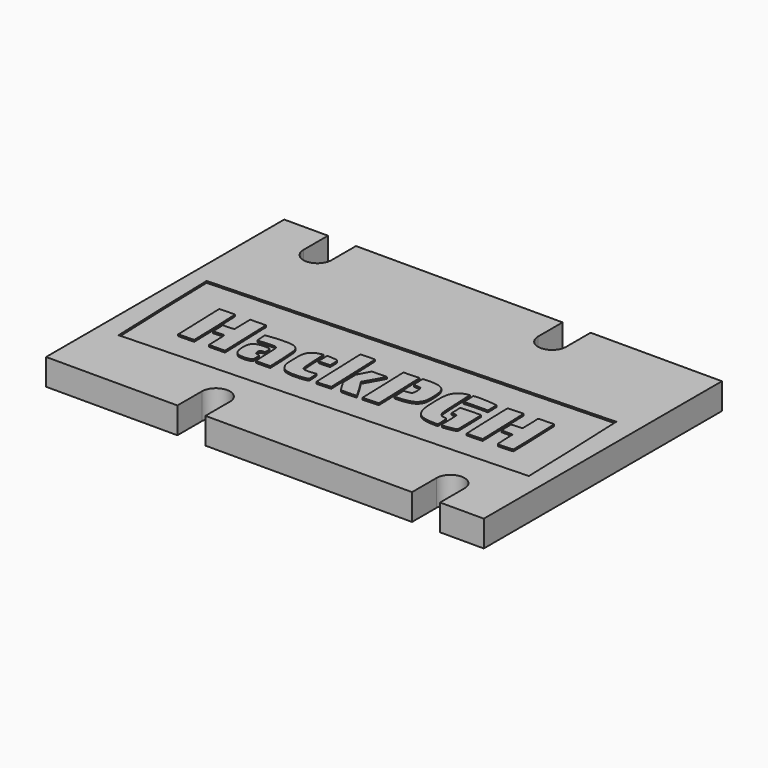
from build123d import *

# Parameters (mm, degrees)
PAD001_DEPTH = 3
POCKET_DEPTH = 0.2
PAD002_DEPTH = 0.2


with BuildPart() as part:
    # Sketch001 (on DatumPlane) → Pad001 (new body)
    with BuildSketch(Plane(origin=(0, 0, 1.7), x_dir=(1, 0, 0), z_dir=(0, 0, -1))):
        with BuildLine():
            Line((-25, 20), (-10, 20))
            Line((-10, 20), (-10, 16.5))
            ThreePointArc((-10, 16.5), (-8.4, 14.9), (-6.8, 16.5))
            Line((-6.8, 16.5), (-6.8, 20))
            Line((-6.8, 20), (16.8, 20))
            Line((16.8, 20), (16.8, 16.5))
            ThreePointArc((16.8, 16.5), (18.4, 14.9), (20, 16.5))
            Line((20, 16.5), (20, 20))
            Line((20, 20), (25, 20))
            Line((25, 20), (25, -14))
            Line((25, -14), (10, -14))
            Line((10, -14), (10, -10.5))
            ThreePointArc((10, -10.5), (8.4, -8.9), (6.8, -10.5))
            Line((6.8, -10.5), (6.8, -14))
            Line((6.8, -14), (-16.8, -14))
            Line((-16.8, -14), (-16.8, -10.5))
            ThreePointArc((-16.8, -10.5), (-18.4, -8.9), (-20, -10.5))
            Line((-20, -10.5), (-20, -14))
            Line((-20, -14), (-25, -14))
            Line((-25, -14), (-25, 20))
        make_face()
    extrude(amount=-PAD001_DEPTH)

    # Sketch002 (on Face22 of Pad001) → Pocket (cut)
    with BuildSketch(Plane(origin=(-23, 2, 4.7), x_dir=(1, 0, 0), z_dir=(0, 0, 1))):
        with BuildLine():
            add(Edge.make_bspline(
                [(0.405326, -14.19312), (0.332748, -13.233638), (-0.037555, -1.629354), (0.003109, -1.588691)],
                knots=[0, 0, 0, 0, 1, 1, 1, 1], degree=3))
            add(Edge.make_bspline(
                [(0.003109, -1.588691), (0.058539, -1.53326), (45.480512, 0.050456), (45.532207, -0.001238)],
                knots=[0, 0, 0, 0, 1, 1, 1, 1], degree=3))
            add(Edge.make_bspline(
                [(45.532207, -0.001238), (45.578189, -0.04722), (46.040074, -13.017304), (45.997193, -13.058394)],
                knots=[0, 0, 0, 0, 1, 1, 1, 1], degree=3))
            add(Edge.make_bspline(
                [(45.997193, -13.058394), (45.982006, -13.072946), (36.098618, -13.427956), (24.034131, -13.847281)],
                knots=[0, 0, 0, 0, 1, 1, 1, 1], degree=3))
            add(Edge.make_bspline(
                [(24.034131, -13.847281), (11.969647, -14.266609), (1.726147, -14.627704), (1.270796, -14.64972)],
                knots=[0, 0, 0, 0, 1, 1, 1, 1], degree=3))
            add(Edge.make_bspline(
                [(1.270796, -14.64972), (0.442891, -14.689746)],
                knots=[0, 0, 3.132745, 3.132745], degree=1))
            add(Edge.make_bspline(
                [(0.442891, -14.689746), (0.405326, -14.19312)],
                knots=[0, 0, 1.882372, 1.882372], degree=1))
        make_face()
    extrude(amount=-POCKET_DEPTH, mode=Mode.SUBTRACT)

    # Sketch003 (on Face30 of Pocket) → Pad002 (join)
    with BuildSketch(Plane(origin=(-23, 2, 4.5), x_dir=(1, 0, 0), z_dir=(0, 0, 1))):
        with BuildLine():
            add(Edge.make_bspline(
                [(6.248932, -11.159427), (6.286886, -11.097591), (6.079426, -5.110141), (6.038257, -5.07913)],
                knots=[0, 0, 0, 0, 1, 1, 1, 1], degree=3))
            add(Edge.make_bspline(
                [(6.038257, -5.07913), (6.020927, -5.066086), (5.616723, -5.066535), (5.140039, -5.080188)],
                knots=[0, 0, 0, 0, 1, 1, 1, 1], degree=3))
            add(Edge.make_bspline(
                [(5.140039, -5.080188), (4.273336, -5.104926)],
                knots=[0, 0, 3.277064, 3.277064], degree=1))
            add(Edge.make_bspline(
                [(4.273336, -5.104926), (4.274923, -5.366631)],
                knots=[0, 0, 0.989138, 0.989138], degree=1))
            add(Edge.make_bspline(
                [(4.274923, -5.366631), (4.275717, -5.51057), (4.317632, -6.720382), (4.367834, -8.055102)],
                knots=[0, 0, 0, 0, 1, 1, 1, 1], degree=3))
            add(Edge.make_bspline(
                [(4.367834, -8.055102), (4.418036, -9.389822), (4.459846, -10.644963), (4.460748, -10.844305)],
                knots=[0, 0, 0, 0, 1, 1, 1, 1], degree=3))
            add(Edge.make_bspline(
                [(4.460748, -10.844305), (4.462335, -11.206742)],
                knots=[0, 0, 1.369853, 1.369853], degree=1))
            add(Edge.make_bspline(
                [(4.462335, -11.206742), (5.341075, -11.206742)],
                knots=[0, 0, 3.32122, 3.32122], degree=1))
            add(Edge.make_bspline(
                [(5.341075, -11.206742), (5.824381, -11.206742), (6.232872, -11.185469), (6.248831, -11.159469)],
                knots=[0, 0, 0, 0, 1, 1, 1, 1], degree=3))
            add(Edge.make_bspline(
                [(6.248831, -11.159469), (6.248932, -11.159427)],
                knots=[0, 0, 0.000412, 0.000412], degree=1))
        make_face()
        with BuildLine():
            add(Edge.make_bspline(
                [(9.692532, -10.872454), (9.691738, -10.761612), (9.64973, -9.593059), (9.599403, -8.275672)],
                knots=[0, 0, 0, 0, 1, 1, 1, 1], degree=3))
            add(Edge.make_bspline(
                [(9.599403, -8.275672), (9.54908, -6.958288), (9.507265, -5.674), (9.506484, -5.421707)],
                knots=[0, 0, 0, 0, 1, 1, 1, 1], degree=3))
            add(Edge.make_bspline(
                [(9.506484, -5.421707), (9.505162, -4.962988)],
                knots=[0, 0, 1.733747, 1.733747], degree=1))
            add(Edge.make_bspline(
                [(9.505162, -4.962988), (8.606943, -4.980477)],
                knots=[0, 0, 3.395483, 3.395483], degree=1))
            add(Edge.make_bspline(
                [(8.606943, -4.980477), (7.708725, -4.997966)],
                knots=[0, 0, 3.395483, 3.395483], degree=1))
            add(Edge.make_bspline(
                [(7.708725, -4.997966), (7.732723, -6.13881)],
                knots=[0, 0, 4.312804, 4.312804], degree=1))
            add(Edge.make_bspline(
                [(7.732723, -6.13881), (7.756721, -7.279656)],
                knots=[0, 0, 4.312814, 4.312814], degree=1))
            add(Edge.make_bspline(
                [(7.756721, -7.279656), (7.606665, -7.319817)],
                knots=[0, 0, 0.587101, 0.587101], degree=1))
            add(Edge.make_bspline(
                [(7.606665, -7.319817), (7.524136, -7.34191), (7.232621, -7.360362), (6.958857, -7.360835)],
                knots=[0, 0, 0, 0, 1, 1, 1, 1], degree=3))
            add(Edge.make_bspline(
                [(6.958857, -7.360835), (6.461104, -7.361629)],
                knots=[0, 0, 1.881272, 1.881272], degree=1))
            add(Edge.make_bspline(
                [(6.461104, -7.361629), (6.501868, -7.843885)],
                knots=[0, 0, 1.8292, 1.8292], degree=1))
            add(Edge.make_bspline(
                [(6.501868, -7.843885), (6.524278, -8.109122), (6.542635, -8.43911), (6.542635, -8.577186)],
                knots=[0, 0, 0, 0, 1, 1, 1, 1], degree=3))
            add(Edge.make_bspline(
                [(6.542635, -8.577186), (6.542635, -8.828236)],
                knots=[0, 0, 0.94885, 0.94885], degree=1))
            add(Edge.make_bspline(
                [(6.542635, -8.828236), (7.164559, -8.798287)],
                knots=[0, 0, 2.353304, 2.353304], degree=1))
            add(Edge.make_bspline(
                [(7.164559, -8.798287), (7.786484, -8.768339)],
                knots=[0, 0, 2.353304, 2.353304], degree=1))
            add(Edge.make_bspline(
                [(7.786484, -8.768339), (7.826404, -9.240599)],
                knots=[0, 0, 1.791286, 1.791286], degree=1))
            add(Edge.make_bspline(
                [(7.826404, -9.240599), (7.848365, -9.500343), (7.866324, -10.015866), (7.866324, -10.386206)],
                knots=[0, 0, 0, 0, 1, 1, 1, 1], degree=3))
            add(Edge.make_bspline(
                [(7.866324, -10.386206), (7.866324, -10.756545), (7.878045, -11.071371), (7.892386, -11.085814)],
                knots=[0, 0, 0, 0, 1, 1, 1, 1], degree=3))
            add(Edge.make_bspline(
                [(7.892386, -11.085814), (7.906726, -11.10026), (8.318008, -11.103488), (8.806363, -11.093011)],
                knots=[0, 0, 0, 0, 1, 1, 1, 1], degree=3))
            add(Edge.make_bspline(
                [(8.806363, -11.093011), (9.694278, -11.073934)],
                knots=[0, 0, 3.356674, 3.356674], degree=1))
            add(Edge.make_bspline(
                [(9.694278, -11.073934), (9.692532, -10.872454)],
                knots=[0, 0, 0.761529, 0.761529], degree=1))
        make_face()
        with BuildLine():
            add(Edge.make_bspline(
                [(12.546396, -10.865178), (12.73229, -10.742695), (12.751377, -10.635708), (12.680109, -10.115738)],
                knots=[0, 0, 0, 0, 1, 1, 1, 1], degree=3))
            add(Edge.make_bspline(
                [(12.680109, -10.115738), (12.641974, -9.837526), (12.631865, -9.825895), (12.412218, -9.807535)],
                knots=[0, 0, 0, 0, 1, 1, 1, 1], degree=3))
            add(Edge.make_bspline(
                [(12.412218, -9.807535), (12.205356, -9.790232), (12.178371, -9.765834), (12.124362, -9.547148)],
                knots=[0, 0, 0, 0, 1, 1, 1, 1], degree=3))
            add(Edge.make_bspline(
                [(12.124362, -9.547148), (12.046471, -9.231773), (12.130474, -9.10073), (12.426715, -9.075531)],
                knots=[0, 0, 0, 0, 1, 1, 1, 1], degree=3))
            add(Edge.make_bspline(
                [(12.426715, -9.075531), (12.656704, -9.055978)],
                knots=[0, 0, 0.872386, 0.872386], degree=1))
            add(Edge.make_bspline(
                [(12.656704, -9.055978), (12.656704, -8.749773)],
                knots=[0, 0, 1.15731, 1.15731], degree=1))
            add(Edge.make_bspline(
                [(12.656704, -8.749773), (12.656704, -8.253071), (12.646649, -8.244163), (12.085767, -8.244163)],
                knots=[0, 0, 0, 0, 1, 1, 1, 1], degree=3))
            add(Edge.make_bspline(
                [(12.085767, -8.244163), (11.347998, -8.244163), (10.996348, -8.337801), (10.771222, -8.594204)],
                knots=[0, 0, 0, 0, 1, 1, 1, 1], degree=3))
            add(Edge.make_bspline(
                [(10.771222, -8.594204), (10.542982, -8.854157), (10.489044, -9.108514), (10.526167, -9.749816)],
                knots=[0, 0, 0, 0, 1, 1, 1, 1], degree=3))
            add(Edge.make_bspline(
                [(10.526167, -9.749816), (10.560079, -10.335604), (10.745406, -10.721602), (11.080882, -10.905173)],
                knots=[0, 0, 0, 0, 1, 1, 1, 1], degree=3))
            add(Edge.make_bspline(
                [(11.080882, -10.905173), (11.373892, -11.065505), (12.279887, -11.040787), (12.546396, -10.865189)],
                knots=[0, 0, 0, 0, 1, 1, 1, 1], degree=3))
            add(Edge.make_bspline(
                [(12.546396, -10.865189), (12.546396, -10.865178)],
                knots=[0, 0, 4e-05, 4e-05], degree=1))
        make_face()
        with BuildLine():
            add(Edge.make_bspline(
                [(14.716159, -10.867559), (14.755365, -10.837627), (14.595046, -7.580432), (14.541085, -7.31062)],
                knots=[0, 0, 0, 0, 1, 1, 1, 1], degree=3))
            add(Edge.make_bspline(
                [(14.541085, -7.31062), (14.448536, -6.847866), (14.19474, -6.571448), (13.741413, -6.439662)],
                knots=[0, 0, 0, 0, 1, 1, 1, 1], degree=3))
            add(Edge.make_bspline(
                [(13.741413, -6.439662), (13.456592, -6.356863), (13.197279, -6.343687), (12.37714, -6.370349)],
                knots=[0, 0, 0, 0, 1, 1, 1, 1], degree=3))
            add(Edge.make_bspline(
                [(12.37714, -6.370349), (11.820205, -6.388447), (11.19754, -6.439236), (10.993437, -6.483202)],
                knots=[0, 0, 0, 0, 1, 1, 1, 1], degree=3))
            add(Edge.make_bspline(
                [(10.993437, -6.483202), (10.622346, -6.563143)],
                knots=[0, 0, 1.434725, 1.434725], degree=1))
            add(Edge.make_bspline(
                [(10.622346, -6.563143), (10.658867, -7.126854)],
                knots=[0, 0, 2.135027, 2.135027], degree=1))
            add(Edge.make_bspline(
                [(10.658867, -7.126854), (10.678948, -7.436895), (10.704478, -7.699658), (10.715588, -7.710768)],
                knots=[0, 0, 0, 0, 1, 1, 1, 1], degree=3))
            add(Edge.make_bspline(
                [(10.715588, -7.710768), (10.7267, -7.72188), (11.118355, -7.699841), (11.585937, -7.661796)],
                knots=[0, 0, 0, 0, 1, 1, 1, 1], degree=3))
            add(Edge.make_bspline(
                [(11.585937, -7.661796), (12.630052, -7.576844), (12.886732, -7.613137), (12.932503, -7.852193)],
                knots=[0, 0, 0, 0, 1, 1, 1, 1], degree=3))
            add(Edge.make_bspline(
                [(12.932503, -7.852193), (12.950547, -7.94643), (12.984165, -8.661741), (13.007208, -9.441773)],
                knots=[0, 0, 0, 0, 1, 1, 1, 1], degree=3))
            add(Edge.make_bspline(
                [(13.007208, -9.441773), (13.030253, -10.221804), (13.0591, -10.876971), (13.071314, -10.897698)],
                knots=[0, 0, 0, 0, 1, 1, 1, 1], degree=3))
            add(Edge.make_bspline(
                [(13.071314, -10.897698), (13.088988, -10.927683), (14.675485, -10.898492), (14.716159, -10.867559)],
                knots=[0, 0, 0, 0, 1, 1, 1, 1], degree=3))
        make_face()
        with BuildLine():
            add(Edge.make_bspline(
                [(18.42226, -10.761173), (18.992853, -10.661809), (18.981433, -10.67821), (18.93025, -10.031529)],
                knots=[0, 0, 0, 0, 1, 1, 1, 1], degree=3))
            add(Edge.make_bspline(
                [(18.93025, -10.031529), (18.885935, -9.471626)],
                knots=[0, 0, 2.122788, 2.122788], degree=1))
            add(Edge.make_bspline(
                [(18.885935, -9.471626), (18.352974, -9.530188)],
                knots=[0, 0, 2.026464, 2.026464], degree=1))
            add(Edge.make_bspline(
                [(18.352974, -9.530188), (17.693222, -9.602687), (17.385332, -9.539052), (17.274588, -9.307341)],
                knots=[0, 0, 0, 0, 1, 1, 1, 1], degree=3))
            add(Edge.make_bspline(
                [(17.274588, -9.307341), (17.223999, -9.201491), (17.174845, -8.612338), (17.138856, -7.680455)],
                knots=[0, 0, 0, 0, 1, 1, 1, 1], degree=3))
            add(Edge.make_bspline(
                [(17.138856, -7.680455), (17.107823, -6.876936), (17.072319, -6.210059), (17.059958, -6.198505)],
                knots=[0, 0, 0, 0, 1, 1, 1, 1], degree=3))
            add(Edge.make_bspline(
                [(17.059958, -6.198505), (17.047602, -6.186943), (16.841134, -6.227278), (16.601146, -6.288117)],
                knots=[0, 0, 0, 0, 1, 1, 1, 1], degree=3))
            add(Edge.make_bspline(
                [(16.601146, -6.288117), (16.233381, -6.381353), (16.122687, -6.443313), (15.896807, -6.682385)],
                knots=[0, 0, 0, 0, 1, 1, 1, 1], degree=3))
            add(Edge.make_bspline(
                [(15.896807, -6.682385), (15.522281, -7.078779), (15.475093, -7.307506), (15.503012, -8.591153)],
                knots=[0, 0, 0, 0, 1, 1, 1, 1], degree=3))
            add(Edge.make_bspline(
                [(15.503012, -8.591153), (15.525237, -9.613471), (15.534481, -9.679715), (15.702743, -10.023631)],
                knots=[0, 0, 0, 0, 1, 1, 1, 1], degree=3))
            add(Edge.make_bspline(
                [(15.702743, -10.023631), (16.000907, -10.633059), (16.386836, -10.817341), (17.379003, -10.824051)],
                knots=[0, 0, 0, 0, 1, 1, 1, 1], degree=3))
            add(Edge.make_bspline(
                [(17.379003, -10.824051), (17.740178, -10.826433), (18.209644, -10.798201), (18.42226, -10.761173)],
                knots=[0, 0, 0, 0, 1, 1, 1, 1], degree=3))
        make_face()
        with BuildLine():
            add(Edge.make_bspline(
                [(21.459669, -10.617049), (21.478692, -10.599401), (21.234667, -4.068466), (21.214226, -4.048024)],
                knots=[0, 0, 0, 0, 1, 1, 1, 1], degree=3))
            add(Edge.make_bspline(
                [(21.214226, -4.048024), (21.202875, -4.036674), (20.83285, -4.044426), (20.391951, -4.065249)],
                knots=[0, 0, 0, 0, 1, 1, 1, 1], degree=3))
            add(Edge.make_bspline(
                [(20.391951, -4.065249), (19.590316, -4.103127)],
                knots=[0, 0, 3.03318, 3.03318], degree=1))
            add(Edge.make_bspline(
                [(19.590316, -4.103127), (19.589522, -4.424471)],
                knots=[0, 0, 1.214534, 1.214534], degree=1))
            add(Edge.make_bspline(
                [(19.589522, -4.424471), (19.587935, -5.054153), (19.788256, -10.546398), (19.816048, -10.631154)],
                knots=[0, 0, 0, 0, 1, 1, 1, 1], degree=3))
            add(Edge.make_bspline(
                [(19.816048, -10.631154), (19.839093, -10.701449), (19.99338, -10.709002), (20.64711, -10.671842)],
                knots=[0, 0, 0, 0, 1, 1, 1, 1], degree=3))
            add(Edge.make_bspline(
                [(20.64711, -10.671842), (21.088625, -10.646733), (21.454314, -10.622082), (21.459751, -10.617039)],
                knots=[0, 0, 0, 0, 1, 1, 1, 1], degree=3))
            add(Edge.make_bspline(
                [(21.459751, -10.617039), (21.459669, -10.617049)],
                knots=[0, 0, 0.000313, 0.000313], degree=1))
        make_face()
        with BuildLine():
            add(Edge.make_bspline(
                [(24.284353, -10.51642), (24.304726, -10.483453), (24.007921, -9.948442), (23.624789, -9.327504)],
                knots=[0, 0, 0, 0, 1, 1, 1, 1], degree=3))
            add(Edge.make_bspline(
                [(23.624789, -9.327504), (22.92818, -8.198525)],
                knots=[0, 0, 5.013908, 5.013908], degree=1))
            add(Edge.make_bspline(
                [(22.92818, -8.198525), (23.52843, -7.151738)],
                knots=[0, 0, 4.560658, 4.560658], degree=1))
            add(Edge.make_bspline(
                [(23.52843, -7.151738), (23.858569, -6.576004), (24.12868, -6.072158), (24.12868, -6.032077)],
                knots=[0, 0, 0, 0, 1, 1, 1, 1], degree=3))
            add(Edge.make_bspline(
                [(24.12868, -6.032077), (24.12868, -5.984079), (24.061449, -5.972651), (23.931703, -5.998602)],
                knots=[0, 0, 0, 0, 1, 1, 1, 1], degree=3))
            add(Edge.make_bspline(
                [(23.931703, -5.998602), (23.823366, -6.020271), (23.442898, -6.037995), (23.086219, -6.037995)],
                knots=[0, 0, 0, 0, 1, 1, 1, 1], degree=3))
            add(Edge.make_bspline(
                [(23.086219, -6.037995), (22.437712, -6.037995)],
                knots=[0, 0, 2.45105, 2.45105], degree=1))
            add(Edge.make_bspline(
                [(22.437712, -6.037995), (22.076463, -6.715599)],
                knots=[0, 0, 2.902241, 2.902241], degree=1))
            add(Edge.make_bspline(
                [(22.076463, -6.715599), (21.715214, -7.393202)],
                knots=[0, 0, 2.902241, 2.902241], degree=1))
            add(Edge.make_bspline(
                [(21.715214, -7.393202), (21.728073, -8.338696)],
                knots=[0, 0, 3.57385, 3.57385], degree=1))
            add(Edge.make_bspline(
                [(21.728073, -8.338696), (21.740932, -9.284187)],
                knots=[0, 0, 3.57384, 3.57384], degree=1))
            add(Edge.make_bspline(
                [(21.740932, -9.284187), (22.131142, -9.930096)],
                knots=[0, 0, 2.852134, 2.852134], degree=1))
            add(Edge.make_bspline(
                [(22.131142, -9.930096), (22.521352, -10.576002)],
                knots=[0, 0, 2.852125, 2.852125], degree=1))
            add(Edge.make_bspline(
                [(22.521352, -10.576002), (23.384333, -10.57619)],
                knots=[0, 0, 3.26166, 3.26166], degree=1))
            add(Edge.make_bspline(
                [(23.384333, -10.57619), (23.862189, -10.576317), (24.263847, -10.54962), (24.284361, -10.516431)],
                knots=[0, 0, 0, 0, 1, 1, 1, 1], degree=3))
            add(Edge.make_bspline(
                [(24.284361, -10.516431), (24.284353, -10.51642)],
                knots=[0, 0, 5e-05, 5e-05], degree=1))
        make_face()
        with BuildLine():
            add(Edge.make_bspline(
                [(26.752201, -10.432135), (26.760562, -10.423774), (26.71972, -9.055828), (26.66143, -7.392273)],
                knots=[0, 0, 0, 0, 1, 1, 1, 1], degree=3))
            add(Edge.make_bspline(
                [(26.66143, -7.392273), (26.555446, -4.367625)],
                knots=[0, 0, 11.438756, 11.438756], degree=1))
            add(Edge.make_bspline(
                [(26.555446, -4.367625), (25.67332, -4.388289)],
                knots=[0, 0, 3.334935, 3.334935], degree=1))
            add(Edge.make_bspline(
                [(25.67332, -4.388289), (25.188151, -4.399666), (24.78187, -4.41829), (24.770477, -4.429683)],
                knots=[0, 0, 0, 0, 1, 1, 1, 1], degree=3))
            add(Edge.make_bspline(
                [(24.770477, -4.429683), (24.759073, -4.441087), (24.794422, -5.665642), (24.849032, -7.150936)],
                knots=[0, 0, 0, 0, 1, 1, 1, 1], degree=3))
            add(Edge.make_bspline(
                [(24.849032, -7.150936), (24.903631, -8.63623), (24.948261, -10.004753), (24.948205, -10.192099)],
                knots=[0, 0, 0, 0, 1, 1, 1, 1], degree=3))
            add(Edge.make_bspline(
                [(24.948205, -10.192099), (24.948081, -10.532729)],
                knots=[0, 0, 1.28742, 1.28742], degree=1))
            add(Edge.make_bspline(
                [(24.948081, -10.532729), (25.842521, -10.490033)],
                knots=[0, 0, 3.384409, 3.384409], degree=1))
            add(Edge.make_bspline(
                [(25.842521, -10.490033), (26.334461, -10.466538), (26.743806, -10.440487), (26.752172, -10.432121)],
                knots=[0, 0, 0, 0, 1, 1, 1, 1], degree=3))
            add(Edge.make_bspline(
                [(26.752172, -10.432121), (26.752201, -10.432135)],
                knots=[0, 0, 0.000121, 0.000121], degree=1))
        make_face()
        with BuildLine():
            add(Edge.make_bspline(
                [(33.393814, -9.867241), (33.393549, -9.615898), (33.375531, -9.303885), (33.35405, -9.173879)],
                knots=[0, 0, 0, 0, 1, 1, 1, 1], degree=3))
            add(Edge.make_bspline(
                [(33.35405, -9.173879), (33.317328, -8.951709), (33.301273, -8.93745), (33.086855, -8.936577)],
                knots=[0, 0, 0, 0, 1, 1, 1, 1], degree=3))
            add(Edge.make_bspline(
                [(33.086855, -8.936577), (32.763005, -8.935254), (32.561189, -8.814919), (32.428532, -8.544033)],
                knots=[0, 0, 0, 0, 1, 1, 1, 1], degree=3))
            add(Edge.make_bspline(
                [(32.428532, -8.544033), (32.336007, -8.355092), (32.301807, -8.053041), (32.253724, -7.000227)],
                knots=[0, 0, 0, 0, 1, 1, 1, 1], degree=3))
            add(Edge.make_bspline(
                [(32.253724, -7.000227), (32.220847, -6.280325), (32.177384, -5.34063), (32.157138, -4.912013)],
                knots=[0, 0, 0, 0, 1, 1, 1, 1], degree=3))
            add(Edge.make_bspline(
                [(32.157138, -4.912013), (32.120332, -4.13271)],
                knots=[0, 0, 2.948683, 2.948683], degree=1))
            add(Edge.make_bspline(
                [(32.120332, -4.13271), (31.890719, -4.169741)],
                knots=[0, 0, 0.879044, 0.879044], degree=1))
            add(Edge.make_bspline(
                [(31.890719, -4.169741), (31.506377, -4.231725), (30.988844, -4.534911), (30.79841, -4.809646)],
                knots=[0, 0, 0, 0, 1, 1, 1, 1], degree=3))
            add(Edge.make_bspline(
                [(30.79841, -4.809646), (30.511102, -5.224142), (30.426972, -5.688505), (30.42689, -6.860281)],
                knots=[0, 0, 0, 0, 1, 1, 1, 1], degree=3))
            add(Edge.make_bspline(
                [(30.42689, -6.860281), (30.426702, -9.625169), (30.903384, -10.281362), (32.937519, -10.316366)],
                knots=[0, 0, 0, 0, 1, 1, 1, 1], degree=3))
            add(Edge.make_bspline(
                [(32.937519, -10.316366), (33.394507, -10.324224)],
                knots=[0, 0, 1.727455, 1.727455], degree=1))
            add(Edge.make_bspline(
                [(33.394507, -10.324224), (33.393814, -9.867241)],
                knots=[0, 0, 1.727182, 1.727182], degree=1))
        make_face()
        with BuildLine():
            add(Edge.make_bspline(
                [(34.618716, -10.16013), (34.975617, -10.104543), (35.303225, -10.037064), (35.346733, -10.010174)],
                knots=[0, 0, 0, 0, 1, 1, 1, 1], degree=3))
            add(Edge.make_bspline(
                [(35.346733, -10.010174), (35.40923, -9.971548), (35.414413, -9.599644), (35.371418, -8.238866)],
                knots=[0, 0, 0, 0, 1, 1, 1, 1], degree=3))
            add(Edge.make_bspline(
                [(35.371418, -8.238866), (35.317004, -6.516449)],
                knots=[0, 0, 6.513168, 6.513168], degree=1))
            add(Edge.make_bspline(
                [(35.317004, -6.516449), (34.403027, -6.531478)],
                knots=[0, 0, 3.454867, 3.454867], degree=1))
            add(Edge.make_bspline(
                [(34.403027, -6.531478), (33.90034, -6.539733), (33.375592, -6.561817), (33.236921, -6.58055)],
                knots=[0, 0, 0, 0, 1, 1, 1, 1], degree=3))
            add(Edge.make_bspline(
                [(33.236921, -6.58055), (32.984789, -6.614607)],
                knots=[0, 0, 0.961594, 0.961594], degree=1))
            add(Edge.make_bspline(
                [(32.984789, -6.614607), (33.004739, -7.240286)],
                knots=[0, 0, 2.365972, 2.365972], degree=1))
            add(Edge.make_bspline(
                [(33.004739, -7.240286), (33.024688, -7.865962)],
                knots=[0, 0, 2.365962, 2.365962], degree=1))
            add(Edge.make_bspline(
                [(33.024688, -7.865962), (33.326417, -7.865962)],
                knots=[0, 0, 1.14039, 1.14039], degree=1))
            add(Edge.make_bspline(
                [(33.326417, -7.865962), (33.628147, -7.865962)],
                knots=[0, 0, 1.1404, 1.1404], degree=1))
            add(Edge.make_bspline(
                [(33.628147, -7.865962), (33.668912, -8.348218)],
                knots=[0, 0, 1.8292, 1.8292], degree=1))
            add(Edge.make_bspline(
                [(33.668912, -8.348218), (33.691322, -8.61346), (33.709676, -9.15239), (33.709676, -9.545844)],
                knots=[0, 0, 0, 0, 1, 1, 1, 1], degree=3))
            add(Edge.make_bspline(
                [(33.709676, -9.545844), (33.709676, -10.379901), (33.615662, -10.316369), (34.618721, -10.160143)],
                knots=[0, 0, 0, 0, 1, 1, 1, 1], degree=3))
            add(Edge.make_bspline(
                [(34.618721, -10.160143), (34.618716, -10.16013)],
                knots=[0, 0, 5.4e-05, 5.4e-05], degree=1))
        make_face()
        with BuildLine():
            add(Edge.make_bspline(
                [(38.300821, -10.03799), (38.312516, -10.027592), (38.277035, -8.790032), (38.221991, -7.287892)],
                knots=[0, 0, 0, 0, 1, 1, 1, 1], degree=3))
            add(Edge.make_bspline(
                [(38.221991, -7.287892), (38.166932, -5.78575), (38.121907, -4.419849), (38.121934, -4.252555)],
                knots=[0, 0, 0, 0, 1, 1, 1, 1], degree=3))
            add(Edge.make_bspline(
                [(38.121934, -4.252555), (38.121971, -3.948385)],
                knots=[0, 0, 1.14962, 1.14962], degree=1))
            add(Edge.make_bspline(
                [(38.121971, -3.948385), (37.244578, -3.968917)],
                knots=[0, 0, 3.317038, 3.317038], degree=1))
            add(Edge.make_bspline(
                [(37.244578, -3.968917), (36.762018, -3.980214), (36.353276, -4.003622), (36.336266, -4.020955)],
                knots=[0, 0, 0, 0, 1, 1, 1, 1], degree=3))
            add(Edge.make_bspline(
                [(36.336266, -4.020955), (36.310787, -4.046937), (36.510823, -10.093031), (36.53768, -10.108504)],
                knots=[0, 0, 0, 0, 1, 1, 1, 1], degree=3))
            add(Edge.make_bspline(
                [(36.53768, -10.108504), (36.562445, -10.122765), (38.282875, -10.053974), (38.300821, -10.038001)],
                knots=[0, 0, 0, 0, 1, 1, 1, 1], degree=3))
            add(Edge.make_bspline(
                [(38.300821, -10.038001), (38.300821, -10.03799)],
                knots=[0, 0, 4e-05, 4e-05], degree=1))
        make_face()
        with BuildLine():
            add(Edge.make_bspline(
                [(41.708911, -9.906426), (41.733941, -9.884836), (41.626716, -6.419273), (41.547799, -4.698548)],
                knots=[0, 0, 0, 0, 1, 1, 1, 1], degree=3))
            add(Edge.make_bspline(
                [(41.547799, -4.698548), (41.50805, -3.831847)],
                knots=[0, 0, 3.279163, 3.279163], degree=1))
            add(Edge.make_bspline(
                [(41.50805, -3.831847), (40.895365, -3.831847)],
                knots=[0, 0, 2.31566, 2.31566], degree=1))
            add(Edge.make_bspline(
                [(40.895365, -3.831847), (40.558392, -3.831847), (40.148711, -3.850209), (39.984963, -3.872653)],
                knots=[0, 0, 0, 0, 1, 1, 1, 1], degree=3))
            add(Edge.make_bspline(
                [(39.984963, -3.872653), (39.692982, -3.912674), (39.687902, -3.917228), (39.721176, -4.109027)],
                knots=[0, 0, 0, 0, 1, 1, 1, 1], degree=3))
            add(Edge.make_bspline(
                [(39.721176, -4.109027), (39.739829, -4.216588), (39.762073, -4.730065), (39.770595, -5.250085)],
                knots=[0, 0, 0, 0, 1, 1, 1, 1], degree=3))
            add(Edge.make_bspline(
                [(39.770595, -5.250085), (39.786073, -6.195579)],
                knots=[0, 0, 3.573999, 3.573999], degree=1))
            add(Edge.make_bspline(
                [(39.786073, -6.195579), (39.158878, -6.227096)],
                knots=[0, 0, 2.373491, 2.373491], degree=1))
            add(Edge.make_bspline(
                [(39.158878, -6.227096), (38.711023, -6.249585), (38.53348, -6.281142), (38.537981, -6.337403)],
                knots=[0, 0, 0, 0, 1, 1, 1, 1], degree=3))
            add(Edge.make_bspline(
                [(38.537981, -6.337403), (38.541447, -6.380737), (38.548538, -6.69885), (38.553723, -7.044317)],
                knots=[0, 0, 0, 0, 1, 1, 1, 1], degree=3))
            add(Edge.make_bspline(
                [(38.553723, -7.044317), (38.563169, -7.67244)],
                knots=[0, 0, 2.374278, 2.374278], degree=1))
            add(Edge.make_bspline(
                [(38.563169, -7.67244), (39.209255, -7.690406)],
                knots=[0, 0, 2.442844, 2.442844], degree=1))
            add(Edge.make_bspline(
                [(39.209255, -7.690406), (39.855341, -7.708371)],
                knots=[0, 0, 2.442844, 2.442844], degree=1))
            add(Edge.make_bspline(
                [(39.855341, -7.708371), (39.893899, -8.748414)],
                knots=[0, 0, 3.93357, 3.93357], degree=1))
            add(Edge.make_bspline(
                [(39.893899, -8.748414), (39.915092, -9.320437), (39.936378, -9.83788), (39.941175, -9.898285)],
                knots=[0, 0, 0, 0, 1, 1, 1, 1], degree=3))
            add(Edge.make_bspline(
                [(39.941175, -9.898285), (39.949165, -9.999051), (40.021415, -10.00483), (40.816593, -9.968309)],
                knots=[0, 0, 0, 0, 1, 1, 1, 1], degree=3))
            add(Edge.make_bspline(
                [(40.816593, -9.968309), (41.29328, -9.946428), (41.694812, -9.91857), (41.70888, -9.906431)],
                knots=[0, 0, 0, 0, 1, 1, 1, 1], degree=3))
            add(Edge.make_bspline(
                [(41.70888, -9.906431), (41.708911, -9.906426)],
                knots=[0, 0, 0.000122, 0.000122], degree=1))
        make_face()
        with BuildLine():
            add(Edge.make_bspline(
                [(28.045976, -8.499705), (28.93726, -8.405897), (29.415587, -8.132405), (29.650476, -7.582302)],
                knots=[0, 0, 0, 0, 1, 1, 1, 1], degree=3))
            add(Edge.make_bspline(
                [(29.650476, -7.582302), (29.733719, -7.387344), (29.757243, -7.151502), (29.754211, -6.542259)],
                knots=[0, 0, 0, 0, 1, 1, 1, 1], degree=3))
            add(Edge.make_bspline(
                [(29.754211, -6.542259), (29.746326, -4.961229), (29.46391, -4.509196), (28.374747, -4.334415)],
                knots=[0, 0, 0, 0, 1, 1, 1, 1], degree=3))
            add(Edge.make_bspline(
                [(28.374747, -4.334415), (28.123293, -4.294063), (27.724431, -4.283009), (27.422147, -4.308009)],
                knots=[0, 0, 0, 0, 1, 1, 1, 1], degree=3))
            add(Edge.make_bspline(
                [(27.422147, -4.308009), (26.902127, -4.35102)],
                knots=[0, 0, 1.972141, 1.972141], degree=1))
            add(Edge.make_bspline(
                [(26.902127, -4.35102), (26.902921, -4.800552)],
                knots=[0, 0, 1.699023, 1.699023], degree=1))
            add(Edge.make_bspline(
                [(26.902921, -4.800552), (26.903185, -5.047795), (26.921203, -5.356455), (26.942682, -5.486458)],
                knots=[0, 0, 0, 0, 1, 1, 1, 1], degree=3))
            add(Edge.make_bspline(
                [(26.942682, -5.486458), (26.981753, -5.722832)],
                knots=[0, 0, 0.905502, 0.905502], degree=1))
            add(Edge.make_bspline(
                [(26.981753, -5.722832), (27.335946, -5.72389)],
                knots=[0, 0, 1.338686, 1.338686], degree=1))
            add(Edge.make_bspline(
                [(27.335946, -5.72389), (27.53075, -5.724419), (27.729971, -5.750084), (27.77866, -5.7809)],
                knots=[0, 0, 0, 0, 1, 1, 1, 1], degree=3))
            add(Edge.make_bspline(
                [(27.77866, -5.7809), (27.884684, -5.848025), (27.985106, -6.491785), (27.933962, -6.776479)],
                knots=[0, 0, 0, 0, 1, 1, 1, 1], degree=3))
            add(Edge.make_bspline(
                [(27.933962, -6.776479), (27.884871, -7.049738), (27.803875, -7.103007), (27.368521, -7.148356)],
                knots=[0, 0, 0, 0, 1, 1, 1, 1], degree=3))
            add(Edge.make_bspline(
                [(27.368521, -7.148356), (26.996774, -7.187078)],
                knots=[0, 0, 1.412631, 1.412631], degree=1))
            add(Edge.make_bspline(
                [(26.996774, -7.187078), (27.016459, -7.873241)],
                knots=[0, 0, 2.594437, 2.594437], degree=1))
            add(Edge.make_bspline(
                [(27.016459, -7.873241), (27.036144, -8.559403)],
                knots=[0, 0, 2.594437, 2.594437], degree=1))
            add(Edge.make_bspline(
                [(27.036144, -8.559403), (27.268583, -8.558345)],
                knots=[0, 0, 0.878519, 0.878519], degree=1))
            add(Edge.make_bspline(
                [(27.268583, -8.558345), (27.396427, -8.557816), (27.746291, -8.53141), (28.046064, -8.499859)],
                knots=[0, 0, 0, 0, 1, 1, 1, 1], degree=3))
            add(Edge.make_bspline(
                [(28.046064, -8.499859), (28.045976, -8.499705)],
                knots=[0, 0, 0.000667, 0.000667], degree=1))
        make_face()
        with BuildLine():
            add(Edge.make_bspline(
                [(18.770888, -6.859982), (18.770888, -6.20785), (18.809443, -6.241881), (18.005973, -6.184847)],
                knots=[0, 0, 0, 0, 1, 1, 1, 1], degree=3))
            add(Edge.make_bspline(
                [(18.005973, -6.184847), (17.447199, -6.145183)],
                knots=[0, 0, 2.117214, 2.117214], degree=1))
            add(Edge.make_bspline(
                [(17.447199, -6.145183), (17.447199, -6.774447)],
                knots=[0, 0, 2.37832, 2.37832], degree=1))
            add(Edge.make_bspline(
                [(17.447199, -6.774447), (17.447199, -7.120541), (17.458894, -7.415527), (17.473208, -7.429971)],
                knots=[0, 0, 0, 0, 1, 1, 1, 1], degree=3))
            add(Edge.make_bspline(
                [(17.473208, -7.429971), (17.487495, -7.444417), (17.785334, -7.447248), (18.135052, -7.436295)],
                knots=[0, 0, 0, 0, 1, 1, 1, 1], degree=3))
            add(Edge.make_bspline(
                [(18.135052, -7.436295), (18.770902, -7.416345)],
                knots=[0, 0, 2.404393, 2.404393], degree=1))
            add(Edge.make_bspline(
                [(18.770902, -7.416345), (18.770888, -6.859982)],
                knots=[0, 0, 2.10279, 2.10279], degree=1))
        make_face()
        with BuildLine():
            add(Edge.make_bspline(
                [(34.137208, -5.442154), (35.226588, -5.445117)],
                knots=[0, 0, 4.117355, 4.117355], degree=1))
            add(Edge.make_bspline(
                [(35.226588, -5.445117), (35.208755, -4.812766)],
                knots=[0, 0, 2.39094, 2.39094], degree=1))
            add(Edge.make_bspline(
                [(35.208755, -4.812766), (35.190922, -4.180417)],
                knots=[0, 0, 2.39093, 2.39093], degree=1))
            add(Edge.make_bspline(
                [(35.190922, -4.180417), (34.93879, -4.135911)],
                knots=[0, 0, 0.967672, 0.967672], degree=1))
            add(Edge.make_bspline(
                [(34.93879, -4.135911), (34.495166, -4.057605), (33.180263, -4.001683), (32.824568, -4.045992)],
                knots=[0, 0, 0, 0, 1, 1, 1, 1], degree=3))
            add(Edge.make_bspline(
                [(32.824568, -4.045992), (32.480512, -4.088855)],
                knots=[0, 0, 1.310422, 1.310422], degree=1))
            add(Edge.make_bspline(
                [(32.480512, -4.088855), (32.500091, -4.811424)],
                knots=[0, 0, 2.731972, 2.731972], degree=1))
            add(Edge.make_bspline(
                [(32.500091, -4.811424), (32.51967, -5.533996)],
                knots=[0, 0, 2.731982, 2.731982], degree=1))
            add(Edge.make_bspline(
                [(32.51967, -5.533996), (32.783743, -5.486588)],
                knots=[0, 0, 1.014026, 1.014026], degree=1))
            add(Edge.make_bspline(
                [(32.783743, -5.486588), (32.928983, -5.4605), (33.538036, -5.440516), (34.137195, -5.442148)],
                knots=[0, 0, 0, 0, 1, 1, 1, 1], degree=3))
            add(Edge.make_bspline(
                [(34.137195, -5.442148), (34.137208, -5.442154)],
                knots=[0, 0, 5.4e-05, 5.4e-05], degree=1))
        make_face()
    extrude(amount=PAD002_DEPTH)


solid = part.part
